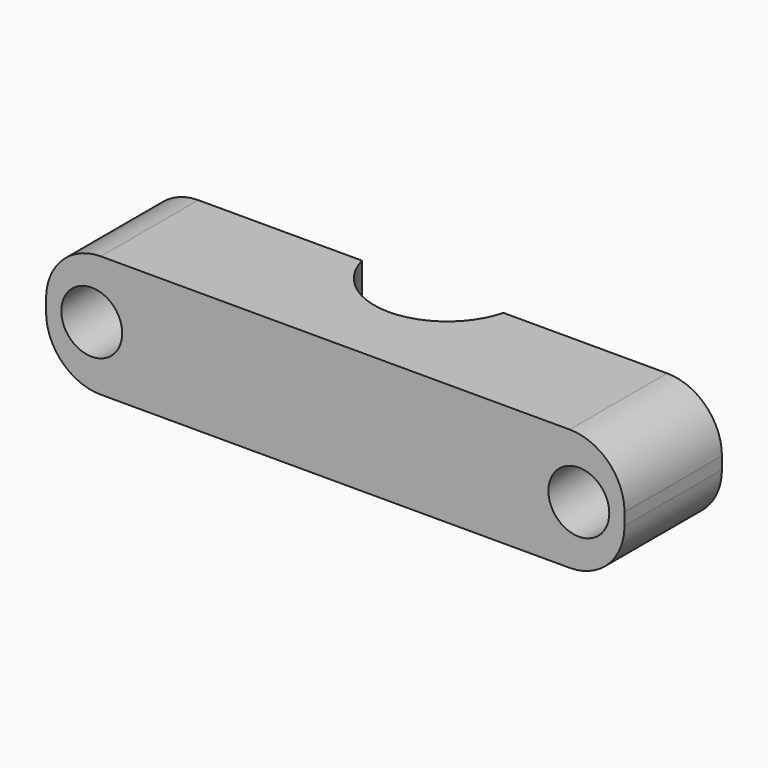
from build123d import *

# Parameters (mm, degrees)
SKETCH_W        = 95
SKETCH_H        = 20
SKETCH_R        = 2.6
PAD_DEPTH       = 20
SKETCH001_R     = 12
POCKET_DEPTH    = 20.001
SKETCH002_R     = 5
POCKET001_DEPTH = 10
FILLET_R        = 9


with BuildPart() as part:
    # Sketch → Pad (new body)
    with BuildSketch(Plane.XZ):
        Rectangle(SKETCH_W, SKETCH_H)
        with Locations((-40, 0)):
            Circle(SKETCH_R, mode=Mode.SUBTRACT)
        with Locations((40, 0)):
            Circle(SKETCH_R, mode=Mode.SUBTRACT)
    extrude(amount=PAD_DEPTH)

    # Sketch001 (on Face2 of Pad) → Pocket (cut, through all)
    with BuildSketch(Plane.XY.offset(10)):
        with Locations((0, 3)):
            Circle(SKETCH001_R)
    extrude(amount=-POCKET_DEPTH, mode=Mode.SUBTRACT)

    # Sketch002 (on Face5 of Pocket) → Pocket001 (cut)
    with BuildSketch(Plane.XZ.offset(20)):
        with Locations((-40, 0)):
            Circle(SKETCH002_R)
        with Locations((40, 0)):
            Circle(SKETCH002_R)
    extrude(amount=-POCKET001_DEPTH, mode=Mode.SUBTRACT)

    # Fillet
    fillet_edges = [part.edges().sort_by_distance(p)[0] for p in [
        (-47.5, -10, 10),
        (-47.5, -10, -10),
        (47.5, -10, 10),
        (47.5, -10, -10),
    ]]
    fillet(fillet_edges, radius=FILLET_R)


solid = part.part
